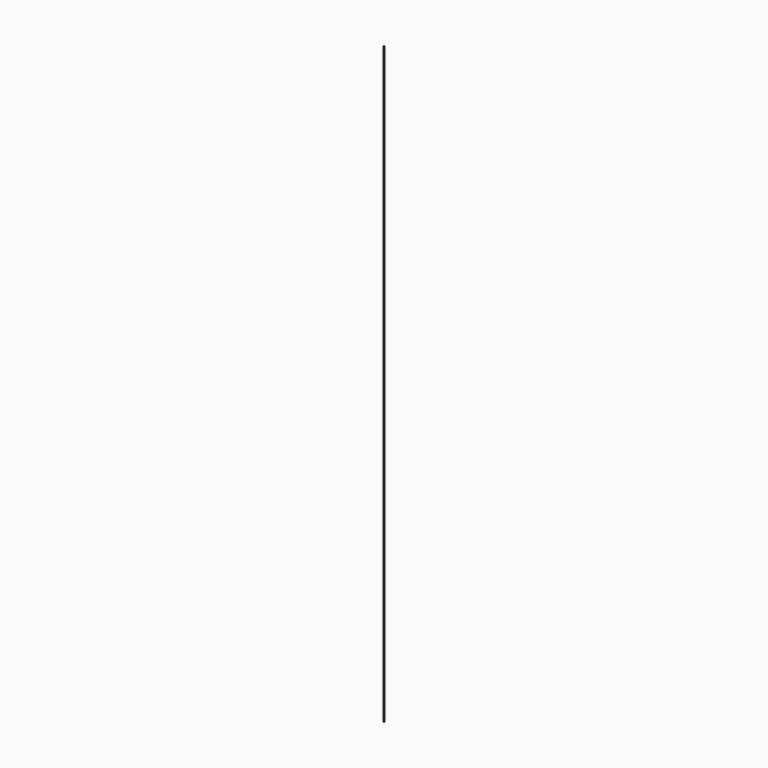
from build123d import *

# Parameters (mm, degrees)
F1_R = 0.4


with BuildPart() as f2:
    # F2: sweep along a path in F0
    with BuildLine(Plane.YZ) as f2_path:
        Line((0, 0), (0, 500))
    # F1 (on Top) → F2 (sweep)
    with BuildSketch(Plane.XY):
        Circle(F1_R)
    sweep(path=f2_path.line)


solid = f2.part
